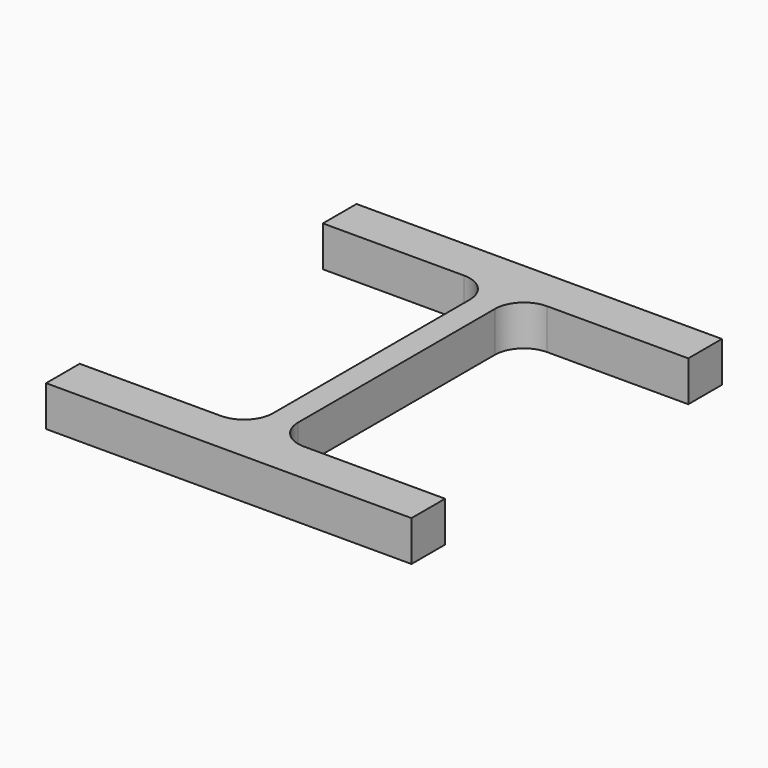
from build123d import *

# Parameters (mm, degrees)
F1_DEPTH = 25


with BuildPart() as f1:
    # F0 (on Top) → F1 (new body)
    with BuildSketch(Plane.XY):
        with BuildLine():
            Line((167.115666, 162.140837), (-58.884334, 162.140837))
            Line((-58.884334, 162.140837), (-58.884334, 136.140837))
            Line((-58.884334, 136.140837), (28.365666, 136.140837))
            ThreePointArc((28.365666, 136.140837), (41.093588, 130.868759), (46.365666, 118.140837))
            Line((46.365666, 118.140837), (46.365666, 42.140837))
            Line((46.365666, 42.140837), (46.365666, -33.859163))
            ThreePointArc((46.365666, -33.859163), (41.093588, -46.587085), (28.365666, -51.859163))
            Line((28.365666, -51.859163), (-58.884334, -51.859163))
            Line((-58.884334, -51.859163), (-58.884334, -77.859163))
            Line((-58.884334, -77.859163), (167.115666, -77.859163))
            Line((167.115666, -77.859163), (167.115666, -51.859163))
            Line((167.115666, -51.859163), (79.865666, -51.859163))
            ThreePointArc((79.865666, -51.859163), (67.137744, -46.587085), (61.865666, -33.859163))
            Line((61.865666, -33.859163), (61.865666, 42.140837))
            Line((61.865666, 42.140837), (61.865666, 118.140837))
            ThreePointArc((61.865666, 118.140837), (67.137744, 130.868759), (79.865666, 136.140837))
            Line((79.865666, 136.140837), (167.115666, 136.140837))
            Line((167.115666, 136.140837), (167.115666, 162.140837))
        make_face()
    extrude(amount=F1_DEPTH)


solid = f1.part
